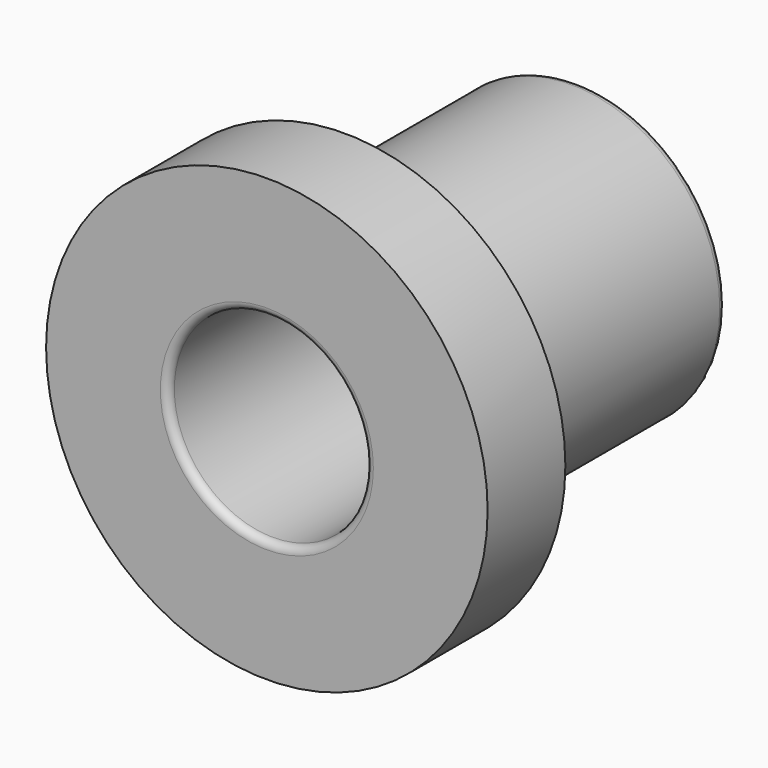
from build123d import *

# Parameters (mm, degrees)
F0_R     = 38.1
F0_R_2   = 25.4
F1_DEPTH = 100
F2_R     = 56.791086
F2_R_2   = 25.414512
F3_DEPTH = 25
F4_R     = 2
F5_R     = 2


with BuildPart() as f1:
    # F0 (on Front) → F1 (new body)
    with BuildSketch(Plane.XZ):
        with Locations((0, 36.864621)):
            Circle(F0_R)
        with Locations((0, 36.864621)):
            Circle(F0_R_2, mode=Mode.SUBTRACT)
    extrude(amount=F1_DEPTH)

    # F2 (on face) → F3 (join)
    with BuildSketch(Plane.XZ.offset(100)):
        with Locations((0, 36.864621)):
            Circle(F2_R)
        with Locations((0, 36.864621)):
            Circle(F2_R_2, mode=Mode.SUBTRACT)
    extrude(amount=-F3_DEPTH)

    # F4
    f4_edges = [f1.edges().sort_by_distance(p)[0] for p in [
        (-38.1, 0, 36.864621),
    ]]
    fillet(f4_edges, radius=F4_R)

    # F5
    f5_edges = [f1.edges().sort_by_distance(p)[0] for p in [
        (-25.4, -100, 36.864621),
    ]]
    fillet(f5_edges, radius=F5_R)


solid = f1.part
